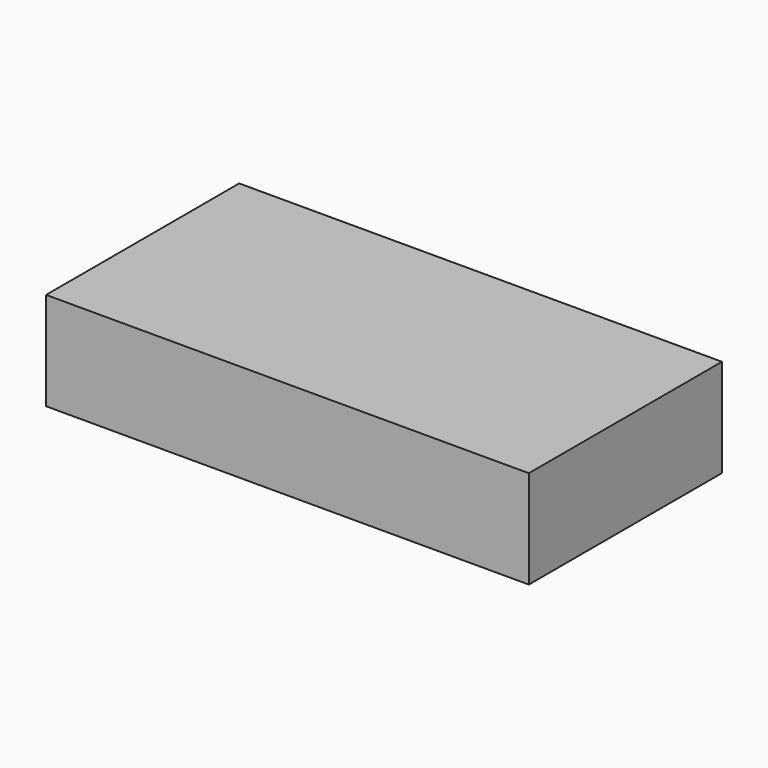
from build123d import *

# Parameters (mm, degrees)
F0_W     = 40.64
F0_H     = 20.32
F1_DEPTH = 4.1275
F2_W     = 25.4
F2_H     = 12.7
F3_DEPTH = 1.905


with BuildPart() as f1:
    # F0 (on Top) → F1 (new body, symmetric)
    with BuildSketch(Plane.XY):
        Rectangle(F0_W, F0_H)
    extrude(amount=F1_DEPTH, both=True)

    # F2 (on Top) → F3 (cut, symmetric)
    with BuildSketch(Plane.XY):
        Rectangle(F2_W, F2_H)
    extrude(amount=F3_DEPTH, both=True, mode=Mode.SUBTRACT)


solid = f1.part
